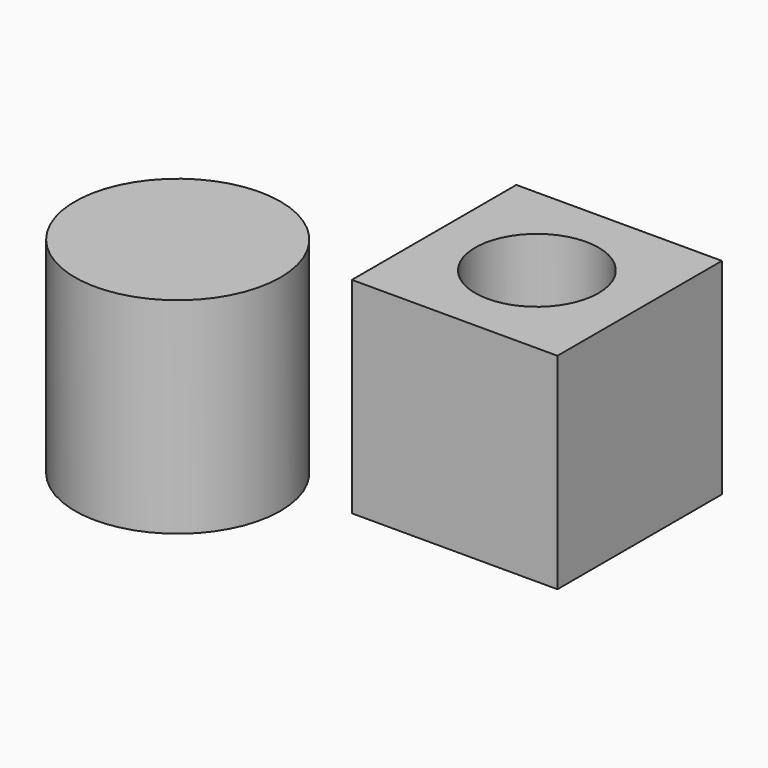
from build123d import *

# Parameters (mm, degrees)
F0_W     = 50
F0_H     = 50
F1_DEPTH = 50
F2_R     = 15
F3_DEPTH = 50
F4_R     = 25
F5_DEPTH = 50


with BuildPart() as f1:
    # F0 (on Top) → F1 (new body)
    with BuildSketch(Plane.XY):
        Rectangle(F0_W, F0_H)
    extrude(amount=F1_DEPTH)

    # F2 (on face) → F3 (cut)
    with BuildSketch(Plane.XY.offset(50)):
        Circle(F2_R)
    extrude(amount=-F3_DEPTH, mode=Mode.SUBTRACT)


with BuildPart() as f5:
    # F4 (on Top) → F5 (new body)
    with BuildSketch(Plane.XY):
        with Locations((-61.197706, -32.704029)):
            Circle(F4_R)
    extrude(amount=F5_DEPTH)


solid = Compound([f1.part, f5.part])
